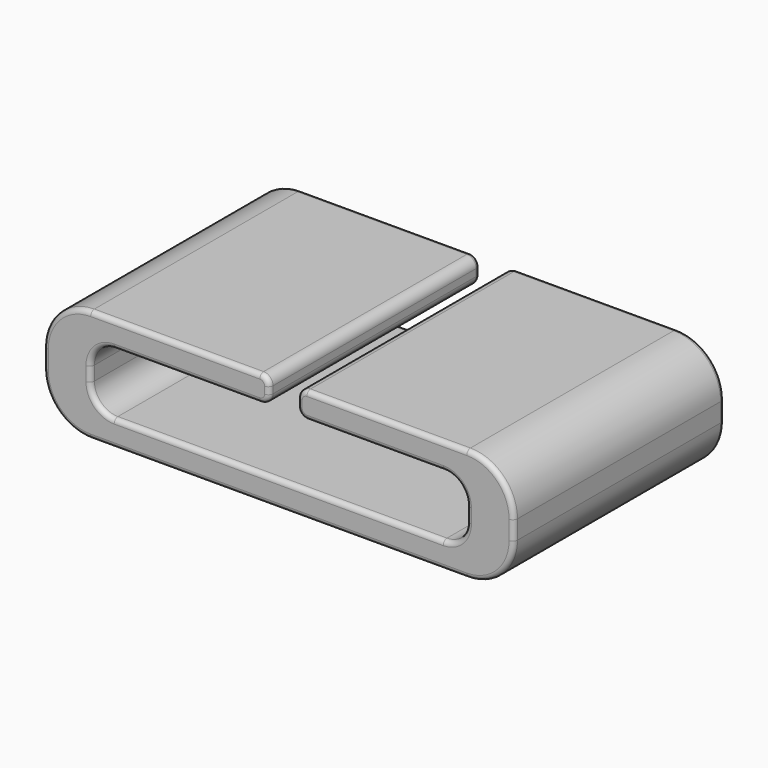
from build123d import *

# Parameters (mm, degrees)
F0_W     = 50
F0_H     = 28
F1_DEPTH = 12
F3_DEPTH = 28.001
F4_R     = 5
F5_R     = 1
F6_R     = 2.5
F7_R     = 0.5


with BuildPart() as f1:
    # F0 (on Top) → F1 (new body)
    with BuildSketch(Plane.XY):
        Rectangle(F0_W, F0_H)
    extrude(amount=F1_DEPTH)

    # F2 (on face) → F3 (cut, through all)
    with BuildSketch(Plane(origin=(0, 14, 0), x_dir=(-1, 0, 0), z_dir=(0, 1, 0))):
        Polygon((-2, 9.25), (-20, 9.25), (-20, 2.75), (20, 2.75), (20, 9.25), (1, 9.25), (1, 12), (-2, 12), align=None)
    extrude(amount=-F3_DEPTH, mode=Mode.SUBTRACT)

    # F4
    f4_edges = [f1.edges().sort_by_distance(p)[0] for p in [
        (25, 0, 0),
        (25, 0, 12),
        (-25, 0, 0),
        (-25, 0, 12),
    ]]
    fillet(f4_edges, radius=F4_R)

    # F5
    f5_edges = [f1.edges().sort_by_distance(p)[0] for p in [
        (-1, 0, 12),
        (2, 0, 12),
        (2, 0, 9.25),
        (-1, 0, 9.25),
    ]]
    fillet(f5_edges, radius=F5_R)

    # F6
    f6_edges = [f1.edges().sort_by_distance(p)[0] for p in [
        (-20, 0, 2.75),
        (-20, 0, 9.25),
        (20, 0, 9.25),
        (20, 0, 2.75),
    ]]
    fillet(f6_edges, radius=F6_R)

    # F7
    f7_edges = [f1.edges().sort_by_distance(p)[0] for p in [
        (10.25, 14, 9.25),
        (19.267767, 14, 8.517767),
        (2.292893, 14, 9.542893),
        (20, 14, 6),
        (2, 14, 10.625),
        (19.267767, 14, 3.482233),
        (2.292893, 14, 11.707107),
        (0, 14, 2.75),
        (11.5, 14, 12),
        (-19.267767, 14, 3.482233),
        (23.535534, 14, 10.535534),
        (-20, 14, 6),
        (25, 14, 6),
        (-19.267767, 14, 8.517767),
        (23.535534, 14, 1.464466),
        (-9.75, 14, 9.25),
        (0, 14, 0),
        (-1.292893, 14, 9.542893),
        (-23.535534, 14, 1.464466),
        (-1, 14, 10.625),
        (-25, 14, 6),
        (-1.292893, 14, 11.707107),
        (-23.535534, 14, 10.535534),
        (-11, 14, 12),
        (-9.75, -14, 9.25),
        (-19.267767, -14, 8.517767),
        (-1.292893, -14, 9.542893),
        (-20, -14, 6),
        (-1, -14, 10.625),
        (-19.267767, -14, 3.482233),
        (-1.292893, -14, 11.707107),
        (0, -14, 2.75),
        (-11, -14, 12),
        (19.267767, -14, 3.482233),
        (-23.535534, -14, 10.535534),
        (20, -14, 6),
        (-25, -14, 6),
        (19.267767, -14, 8.517767),
        (-23.535534, -14, 1.464466),
        (10.25, -14, 9.25),
        (0, -14, 0),
        (2.292893, -14, 9.542893),
        (23.535534, -14, 1.464466),
        (2, -14, 10.625),
        (25, -14, 6),
        (2.292893, -14, 11.707107),
        (23.535534, -14, 10.535534),
        (11.5, -14, 12),
    ]]
    fillet(f7_edges, radius=F7_R)


solid = f1.part
